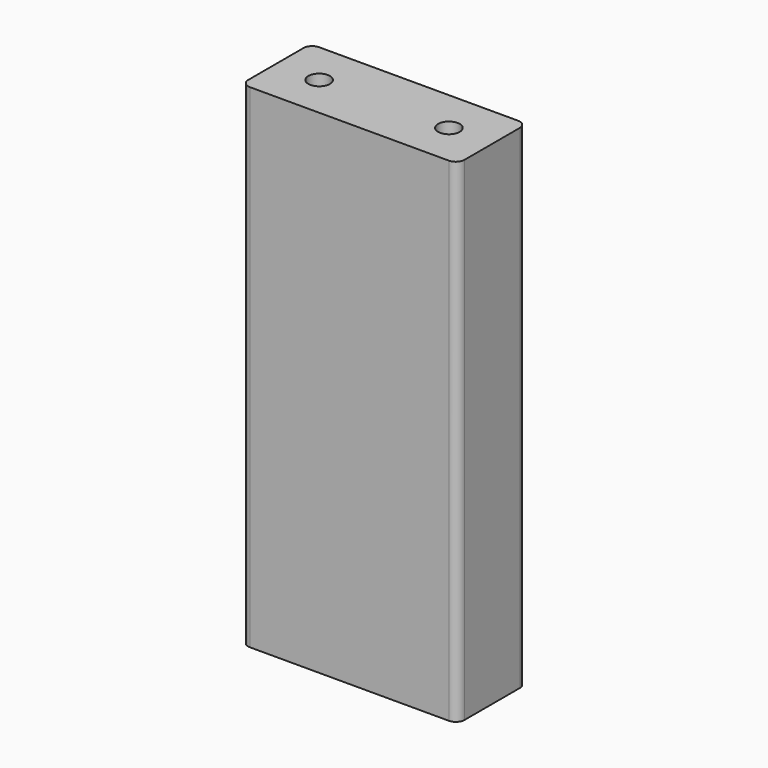
from build123d import *

# Parameters (mm, degrees)
F0_W     = 50
F0_H     = 20
F1_DEPTH = 114
F3_D     = 5
F3_DEPTH = 20.6
F3_TIP   = 1.5021515476
F5_D     = 10
F5_DEPTH = 42
F5_TIP   = 3.0043030951
F6_R     = 2


with BuildPart() as f1:
    # F0 (on Top) → F1 (new body)
    with BuildSketch(Plane.XY):
        Rectangle(F0_W, F0_H)
    extrude(amount=F1_DEPTH)

    # F3
    with Locations(Plane.XY.offset(114)):
        with Locations((-15, 0), (15, 0)):
            Hole(F3_D / 2, depth=F3_DEPTH)
            with Locations((0, 0, -(F3_DEPTH + F3_TIP / 2))):  # 118° drill point
                Cone(0, F3_D / 2, F3_TIP, mode=Mode.SUBTRACT)

    # F5
    with Locations(Plane(origin=(0, 0, 0), x_dir=(1, 0, 0), z_dir=(0, 0, -1))):
        with Locations((-15, 0), (15, 0)):
            Hole(F5_D / 2, depth=F5_DEPTH)
            with Locations((0, 0, -(F5_DEPTH + F5_TIP / 2))):  # 118° drill point
                Cone(0, F5_D / 2, F5_TIP, mode=Mode.SUBTRACT)

    # F6
    f6_edges = [f1.edges().sort_by_distance(p)[0] for p in [
        (25, -10, 57),
        (-25, -10, 57),
        (-25, 10, 57),
        (25, 10, 57),
    ]]
    fillet(f6_edges, radius=F6_R)


solid = f1.part
